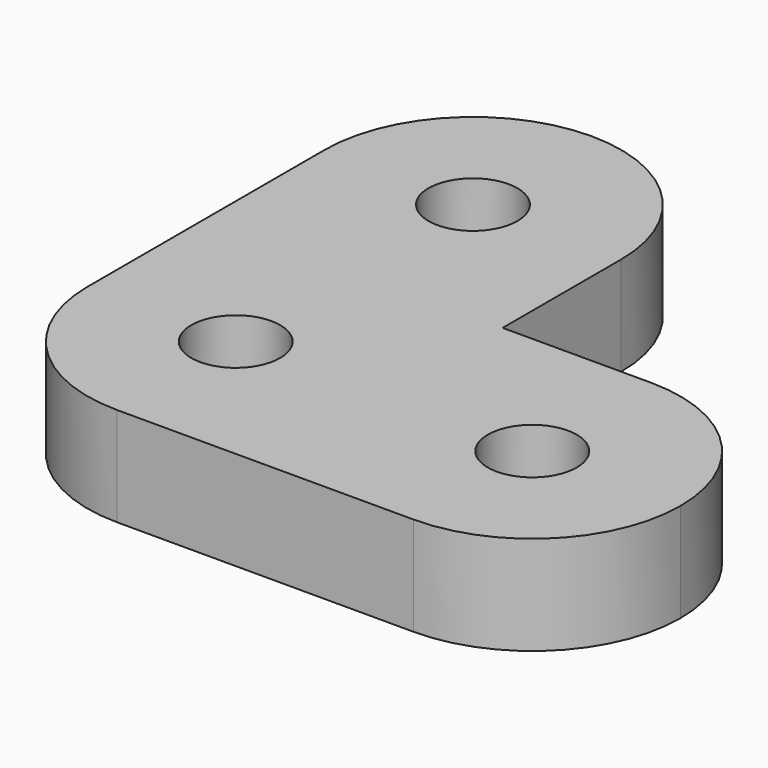
from build123d import *

# Parameters (mm, degrees)
F0_R     = 2.25
F1_DEPTH = 5


with BuildPart() as f1:
    # F0 (on Top) → F1 (new body)
    with BuildSketch(Plane.XY):
        with BuildLine():
            ThreePointArc((0, 15), (-5.303301, 12.803301), (-7.5, 7.5))
            Line((-7.5, 7.5), (-7.5, -7.5))
            ThreePointArc((-7.5, -7.5), (-5.303301, -12.803301), (0, -15))
            Line((0, -15), (15, -15))
            ThreePointArc((15, -15), (20.303301, -12.803301), (22.5, -7.5))
            ThreePointArc((22.5, -7.5), (20.303301, -2.196699), (15, 0))
            Line((15, 0), (7.5, 0))
            Line((7.5, 0), (7.5, 7.5))
            ThreePointArc((7.5, 7.5), (5.303301, 12.803301), (0, 15))
        make_face()
        with Locations((0, -7.5)):
            Circle(F0_R, mode=Mode.SUBTRACT)
        with Locations((15, -7.5)):
            Circle(F0_R, mode=Mode.SUBTRACT)
        with Locations((0, 7.5)):
            Circle(F0_R, mode=Mode.SUBTRACT)
    extrude(amount=F1_DEPTH)


solid = f1.part
